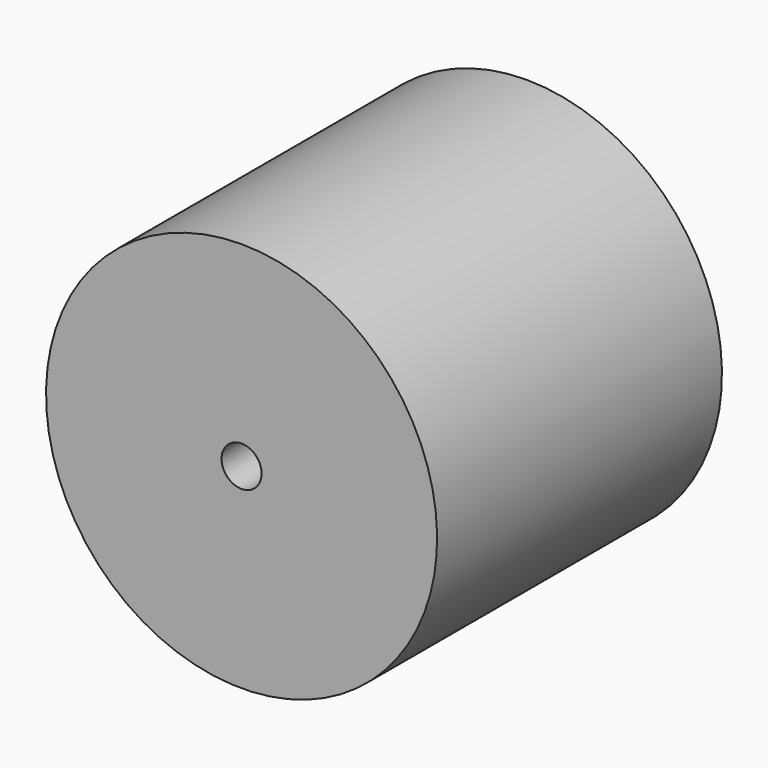
from build123d import *

# Parameters (mm, degrees)
F0_W = 120.1054006815
F0_H = 65.9542232752
F3_D = 13.5


with BuildPart() as f1:
    # F0 (on Right) → F1 (revolve)
    with BuildSketch(Plane.YZ):
        with Locations((-60.0527003407, 32.9771116376)):
            Rectangle(F0_W, F0_H)
    revolve(axis=Axis((0, -60.0527003407, 0), (0, 1, 0)))

    # F3 (through all)
    with Locations(Plane.XZ.offset(120.1054006815)):
        with Locations((0, 0)):
            Hole(F3_D / 2)


solid = f1.part
